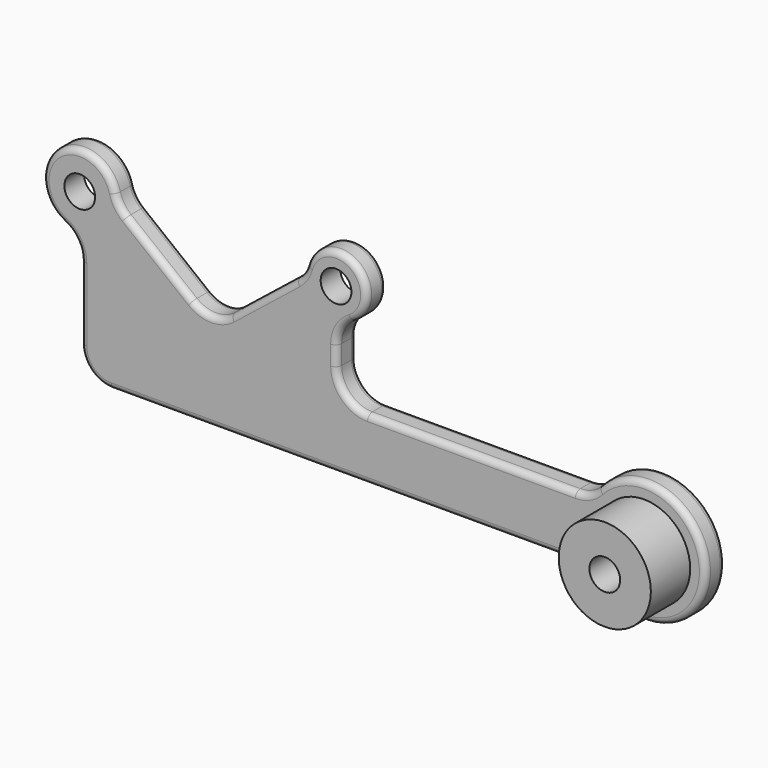
from build123d import *

# Parameters (mm, degrees)
F0_R     = 2.5
F1_DEPTH = 4
F2_R     = 7.5
F2_R_2   = 2.5
F3_DEPTH = 8
F4_R     = 1


with BuildPart() as f1:
    # F0 (on Front) → F1 (new body)
    with BuildSketch(Plane.XZ):
        with BuildLine():
            ThreePointArc((7.563204, -1.238694), (6.468233, -0.032392), (5.819183, 1.461885))
            ThreePointArc((5.819183, 1.461885), (-3.772168, 4.665914), (-2.648487, -5.38382))
            ThreePointArc((-2.648487, -5.38382), (-0.610835, -7.227929), (0.144441, -9.870337))
            Line((0.144441, -9.870337), (0.144441, -21.729986))
            ThreePointArc((0.144441, -21.729986), (1.608907, -25.26552), (5.144441, -26.729986))
            Line((5.144441, -26.729986), (80.640028, -26.729986))
            ThreePointArc((80.640028, -26.729986), (82.681269, -27.165631), (84.366808, -28.396653))
            ThreePointArc((84.366808, -28.396653), (101.820368, -21.729986), (84.366808, -15.063319))
            ThreePointArc((84.366808, -15.063319), (82.681269, -16.294341), (80.640028, -16.729986))
            Line((80.640028, -16.729986), (46.820368, -16.729986))
            ThreePointArc((46.820368, -16.729986), (43.284834, -15.26552), (41.820368, -11.729986))
            Line((41.820368, -11.729986), (41.820368, -8.589635))
            ThreePointArc((41.820368, -8.589635), (42.472902, -6.119911), (44.260184, -4.294818))
            ThreePointArc((44.260184, -4.294818), (44.739366, 3.970171), (36.885865, 1.350595))
            ThreePointArc((36.885865, 1.350595), (36.240501, -0.05949), (35.194129, -1.204016))
            Line((35.194129, -1.204016), (24.527284, -9.732669))
            ThreePointArc((24.527284, -9.732669), (21.415813, -10.827451), (18.299587, -9.74628))
            Line((18.299587, -9.74628), (7.563204, -1.238694))
        make_face()
        with Locations((91.820368, -21.729986)):
            Circle(F0_R, mode=Mode.SUBTRACT)
        Circle(F0_R, mode=Mode.SUBTRACT)
        with Locations((41.7, 0)):
            Circle(F0_R, mode=Mode.SUBTRACT)
    extrude(amount=F1_DEPTH)

    # F2 (on face) → F3 (join)
    with BuildSketch(Plane.XZ.offset(4)):
        with Locations((91.820368, -21.729986)):
            Circle(F2_R)
        with Locations((91.820368, -21.729986)):
            Circle(F2_R_2, mode=Mode.SUBTRACT)
    extrude(amount=F3_DEPTH)

    # F4
    f4_edges = [f1.edges().sort_by_distance(p)[0] for p in [
        (12.931396, -4, -5.492487),
        (63.730198, 0, -16.729986),
    ]]
    fillet(f4_edges, radius=F4_R)


solid = f1.part
